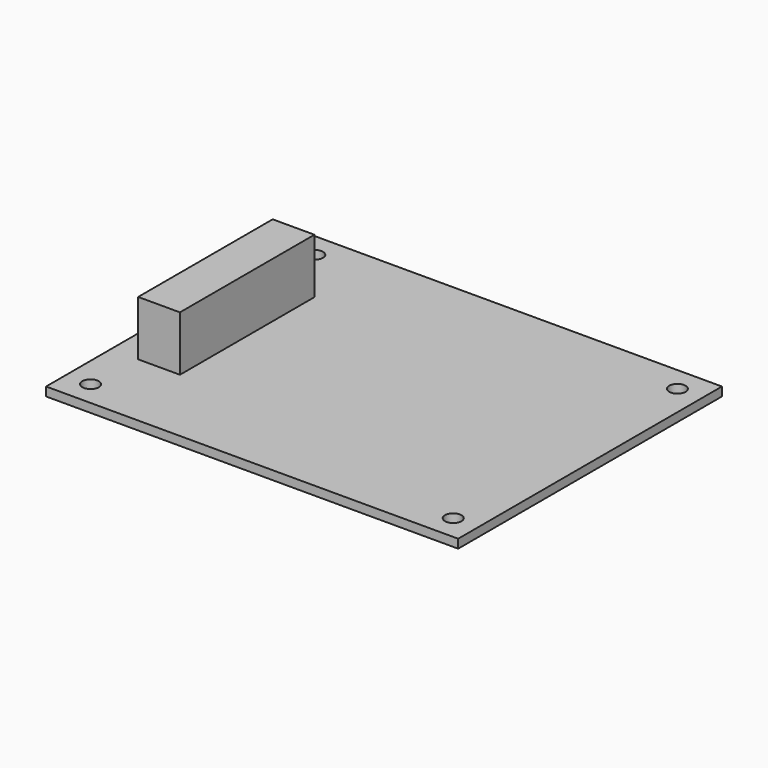
from build123d import *

# Parameters (mm, degrees)
F0_W     = 75
F0_H     = 60
F1_DEPTH = 1.6
F2_W     = 7.6
F2_H     = 30.6
F3_DEPTH = 10
F5_D     = 3
F7_D     = 3
F9_D     = 3
F11_D    = 3


with BuildPart() as f1:
    # F0 (on Top) → F1 (new body)
    with BuildSketch(Plane.XY):
        Rectangle(F0_W, F0_H)
    extrude(amount=F1_DEPTH)

    # F2 (on face) → F3 (join)
    with BuildSketch(Plane.XY.offset(1.6)):
        with Locations((-28.7, 2.328e-07)):
            Rectangle(F2_W, F2_H)
    extrude(amount=F3_DEPTH)

    # F5 (through all)
    with Locations(Plane.XY.offset(1.6)):
        with Locations((-33, 25.5)):
            Hole(F5_D / 2)

    # F7 (through all)
    with Locations(Plane(origin=(0, 0, 0), x_dir=(1, 0, 0), z_dir=(0, 0, -1))):
        with Locations((33, -25.5)):
            Hole(F7_D / 2)

    # F9 (through all)
    with Locations(Plane.XY.offset(1.6)):
        with Locations((33, -25.5)):
            Hole(F9_D / 2)

    # F11 (through all)
    with Locations(Plane.XY.offset(1.6)):
        with Locations((-33, -25.5)):
            Hole(F11_D / 2)


with BuildPart() as f12_1:
    # F12: copy of F1
    add(f1.part)


solid = f1.part
